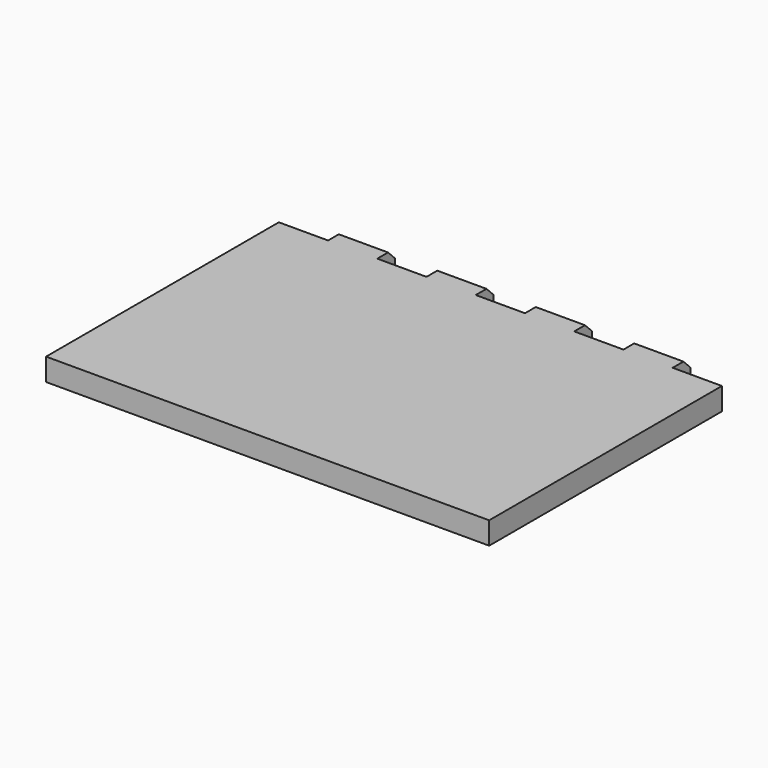
from build123d import *

# Parameters (mm, degrees)
F1_DEPTH = 5
F2_SIZE  = 2


with BuildPart() as f1:
    # F0 (on Top) → F1 (new body)
    with BuildSketch(Plane.XY):
        Polygon((38.5, 30), (38.5, 35), (27.5, 35), (27.5, 30), (16.5, 30), (16.5, 35), (5.5, 35), (5.5, 30), (-5.5, 30), (-5.5, 35), (-16.5, 35), (-16.5, 30), (-27.5, 30), (-27.5, 35), (-38.5, 35), (-38.5, 30), (-49.5, 30), (-49.5, -35), (49.5, -35), (49.5, 30), align=None)
    extrude(amount=F1_DEPTH)

    # F2
    f2_edges = [f1.edges().sort_by_distance(p)[0] for p in [
        (33, 35, 5),
        (11, 35, 5),
        (-11, 35, 5),
        (-33, 35, 5),
        (-33, 35, 0),
        (-11, 35, 0),
        (11, 35, 0),
        (33, 35, 0),
    ]]
    chamfer(f2_edges, length=F2_SIZE)


solid = f1.part
